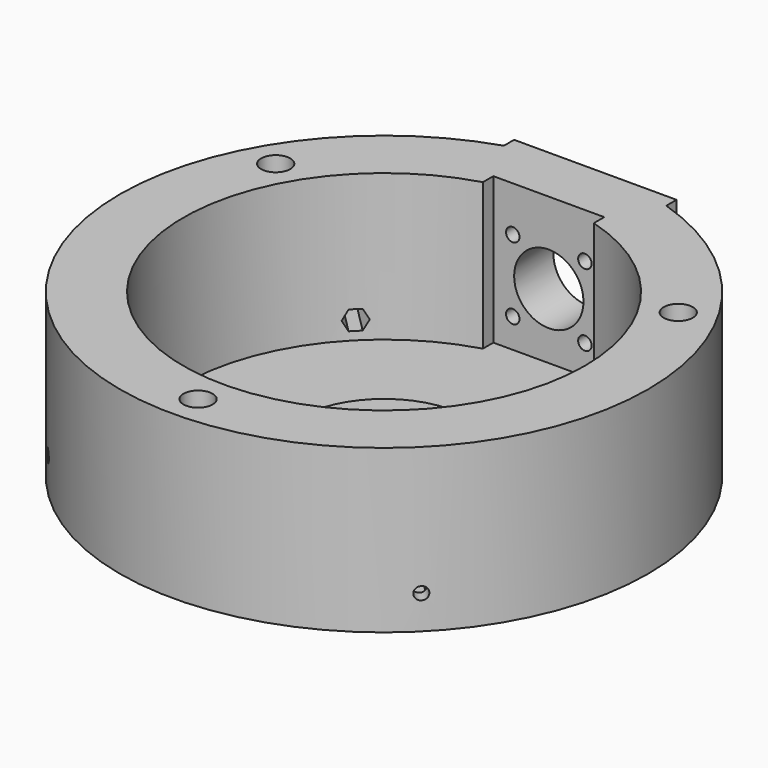
from build123d import *

# Parameters (mm, degrees)
SKETCH031_R           = 66.675
PAD006_DEPTH          = 41
SKETCH032_W           = 41
SKETCH032_H           = 10
PAD007_DEPTH          = 41
SKETCH033_R           = 8.75
POCKET048_DEPTH       = 16
SKETCH034_W           = 25.5
SKETCH034_H           = 25.5
POCKET049_DEPTH       = 2.3
SKETCH035_R           = 1.7
POCKET050_DEPTH       = 16
POCKET051_DEPTH       = 37
SKETCH037_R           = 1.6
POCKET052_DEPTH       = 446.937769
POLARPATTERN017_COUNT = 4
POCKET053_DEPTH       = 30
POLARPATTERN018_COUNT = 4
SKETCH040_R           = 50.675
POCKET054_DEPTH       = 37
SKETCH041_R           = 3.675
POCKET055_DEPTH       = 426.98258
POLARPATTERN019_COUNT = 3
SKETCH042_R           = 22.5
PAD013_DEPTH          = 2
SKETCH044_R           = 7.25
POCKET056_DEPTH       = 6.001
SKETCH045_W           = 28
SKETCH045_H           = 10
POCKET057_DEPTH       = 37
CHAMFER008_SIZE       = 1


with BuildPart() as part:
    # Sketch031 → Pad006 (new body)
    with BuildSketch(Plane.XY):
        Circle(SKETCH031_R)
    extrude(amount=PAD006_DEPTH)

    # Sketch032 (on Face3 of Pad006) → Pad007 (join)
    with BuildSketch(Plane.XY.offset(41)):
        with Locations((0, 61.675)):
            Rectangle(SKETCH032_W, SKETCH032_H)
    extrude(amount=-PAD007_DEPTH)

    # Sketch033 (on Face8 of Pad007) → Pocket048 (cut)
    with BuildSketch(Plane(origin=(0, 66.675, 0), x_dir=(-1, 0, 0), z_dir=(0, 1, 0))):
        with Locations((0, 20.5)):
            Circle(SKETCH033_R)
    extrude(amount=-POCKET048_DEPTH, mode=Mode.SUBTRACT)

    # Sketch034 (on Face8 of Pocket048) → Pocket049 (cut)
    with BuildSketch(Plane(origin=(0, 66.675, 0), x_dir=(-1, 0, 0), z_dir=(0, 1, 0))):
        with Locations((0, 20.5)):
            Rectangle(SKETCH034_W, SKETCH034_H)
    extrude(amount=-POCKET049_DEPTH, mode=Mode.SUBTRACT)

    # Sketch035 (on Face19 of Pocket049) → Pocket050 (cut)
    with BuildSketch(Plane(origin=(0, 64.375, 0), x_dir=(-1, 0, 0), z_dir=(0, 1, 0))):
        with Locations((-9.1, 29.6)):
            Circle(SKETCH035_R)
        with Locations((9.1, 29.6)):
            Circle(SKETCH035_R)
        with Locations((9.1, 11.4)):
            Circle(SKETCH035_R)
        with Locations((-9.1, 11.4)):
            Circle(SKETCH035_R)
    extrude(amount=-POCKET050_DEPTH, mode=Mode.SUBTRACT)

    # Sketch036 → Pocket051 (cut)
    with BuildSketch(Plane.XY.offset(41)):
        Polygon((0, 47.1465), (-47.146189, 0), (0, -47.1465), (47.146189, 0), align=None)
    extrude(amount=-POCKET051_DEPTH, mode=Mode.SUBTRACT)

    # Sketch037 (on Face13 of Pocket051) → Pocket052 (cut, through all)
    with BuildSketch(Plane(origin=(23.57325, -23.573095, 0), x_dir=(-0.707104, -0.707109, 0), z_dir=(-0.707109, 0.707104, 0))):
        with Locations((0, 8.5)):
            Circle(SKETCH037_R)
    pocket052 = extrude(amount=-POCKET052_DEPTH, mode=Mode.SUBTRACT)

    # PolarPattern017: Pocket052 ×4 about axis
    polarpattern017_axis = Axis((0, 0, 0), (0, 0, 1))
    for i in range(1, POLARPATTERN017_COUNT):
        add(pocket052.rotate(polarpattern017_axis, i * 360 / POLARPATTERN017_COUNT), mode=Mode.SUBTRACT)

    # Sketch039 (on Face18 of PolarPattern017) → Pocket053 (cut)
    with BuildSketch(Plane(origin=(23.57325, -23.573095, 0), x_dir=(-0.707104, -0.707109, 0), z_dir=(-0.707109, 0.707104, 0))):
        Polygon((2.8, 8.5), (1.4, 10.924871), (-1.4, 10.924871), (-2.8, 8.5), (-1.4, 6.075129), (1.4, 6.075129), align=None)
    pocket053 = extrude(amount=-POCKET053_DEPTH, mode=Mode.SUBTRACT)

    # PolarPattern018: Pocket053 ×4 about axis
    polarpattern018_axis = Axis((0, 0, 0), (0, 0, 1))
    for i in range(1, POLARPATTERN018_COUNT):
        add(pocket053.rotate(polarpattern018_axis, i * 360 / POLARPATTERN018_COUNT), mode=Mode.SUBTRACT)

    # Sketch040 → Pocket054 (cut)
    with BuildSketch(Plane.XY.offset(41)):
        Circle(SKETCH040_R)
    extrude(amount=-POCKET054_DEPTH, mode=Mode.SUBTRACT)

    # Sketch041 → Pocket055 (cut, through all)
    with BuildSketch(Plane.XY.offset(41)):
        with Locations((0, -58.675)):
            Circle(SKETCH041_R)
    pocket055 = extrude(amount=-POCKET055_DEPTH, mode=Mode.SUBTRACT)

    # PolarPattern019: Pocket055 ×3 about axis
    polarpattern019_axis = Axis((0, 0, 41), (0, 0, 1))
    for i in range(1, POLARPATTERN019_COUNT):
        add(pocket055.rotate(polarpattern019_axis, i * 360 / POLARPATTERN019_COUNT), mode=Mode.SUBTRACT)

    # Sketch042 (on Face61 of PolarPattern019) → Pad013 (join)
    with BuildSketch(Plane.XY.offset(4)):
        Circle(SKETCH042_R)
    extrude(amount=PAD013_DEPTH)

    # Sketch044 (on Face66 of Pad013) → Pocket056 (cut, through all)
    with BuildSketch(Plane.XY.offset(6)):
        Circle(SKETCH044_R)
    extrude(amount=-POCKET056_DEPTH, mode=Mode.SUBTRACT)

    # Sketch045 (on Face5 of Pocket056) → Pocket057 (cut)
    with BuildSketch(Plane.XY.offset(41)):
        with Locations((0, 47)):
            Rectangle(SKETCH045_W, SKETCH045_H)
    extrude(amount=-POCKET057_DEPTH, mode=Mode.SUBTRACT)

    # Chamfer008
    chamfer008_edges = [part.edges().sort_by_distance(p)[0] for p in [
        (-22.5, 0, 6),
    ]]
    chamfer(chamfer008_edges, length=CHAMFER008_SIZE)


solid = part.part
